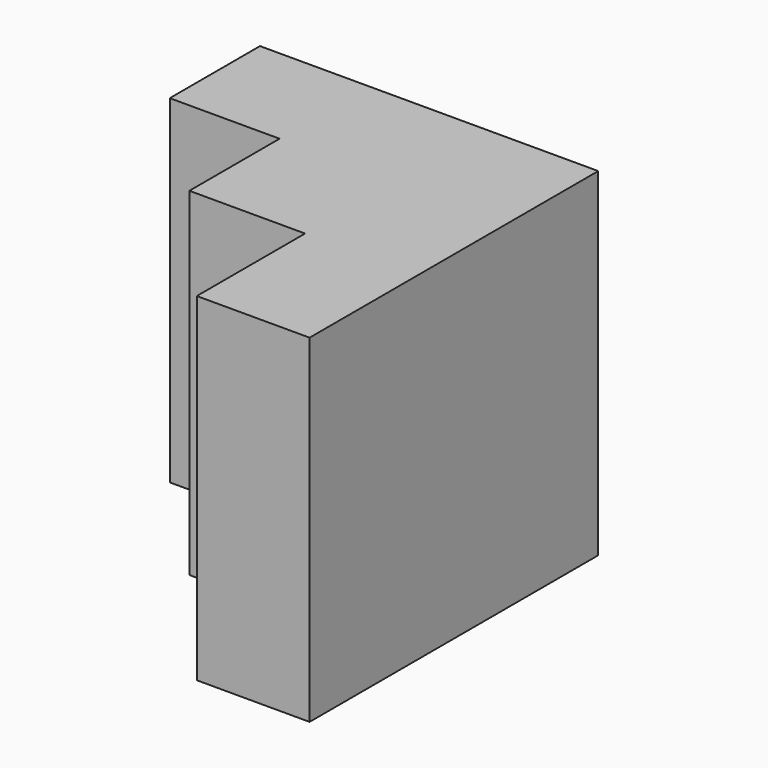
from build123d import *

# Parameters (mm, degrees)
F0_W     = 50.8
F0_H     = 25.4
F1_DEPTH = 25.4
F2_W     = 26.06531
F2_H     = 25.4
F3_DEPTH = 25.4
F5_DEPTH = 50.8
F7_DEPTH = 25.4


with BuildPart() as f1:
    # F0 (on Top) → F1 (new body)
    with BuildSketch(Plane.XY):
        with Locations((-25.4, 12.7)):
            Rectangle(F0_W, F0_H)
    extrude(amount=F1_DEPTH)

    # F2 (on Top) → F3 (join)
    with BuildSketch(Plane.XY):
        with Locations((-13.032655, -12.7)):
            Rectangle(F2_W, F2_H)
    extrude(amount=F3_DEPTH)

    # F4 (on face) → F5 (join)
    with BuildSketch(Plane.XY.offset(25.4)):
        Polygon((0, -25.4), (0, 25.4), (-50.8, 25.4), (-50.8, 0), (-26.06531, 0), (-26.06531, -25.4), align=None)
    extrude(amount=F5_DEPTH)

    # F6 (on face) → F7 (join)
    with BuildSketch(Plane.YZ):
        Polygon((-55.88, 0), (-25.4, 0), (25.4, 0), (25.4, 76.2), (-23.200989, 76.2), (-55.88, 76.2), align=None)
    extrude(amount=F7_DEPTH)


solid = f1.part
